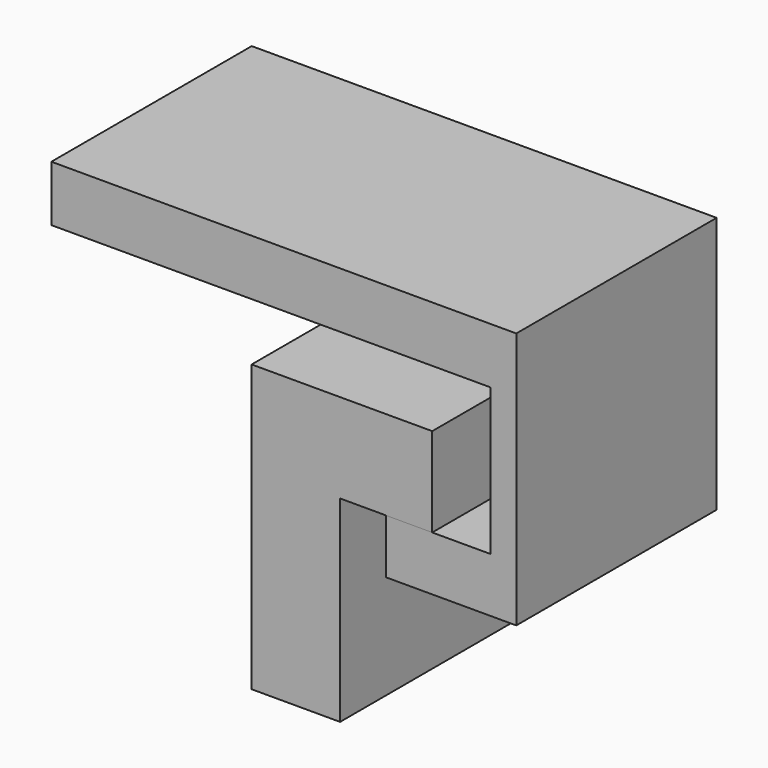
from build123d import *

# Parameters (mm, degrees)
F1_DEPTH = 25
F3_DEPTH = 25


with BuildPart() as f1:
    # F0 (on Front) → F1 (new body)
    with BuildSketch(Plane.XZ):
        Polygon((18.027484, 28.546689), (0, 28.546689), (0, 0), (8.829273, 0), (8.829273, 19.641139), (18.027484, 19.641139), align=None)
    extrude(amount=-F1_DEPTH)


with BuildPart() as f3:
    # F2 (on face) → F3 (new body)
    with BuildSketch(Plane.XZ):
        Polygon((23.857851, 19.641139), (13.428379, 19.641139), (13.428379, 14.20033), (26.419755, 14.20033), (26.419755, 19.641139), align=None)
        Polygon((23.857851, 34.287322), (23.857851, 19.641139), (26.419755, 19.641139), (26.419755, 39.862372), (-19.993745, 39.862372), (-19.993745, 34.287322), align=None)
    extrude(amount=-F3_DEPTH)


solid = Compound([f1.part, f3.part])
